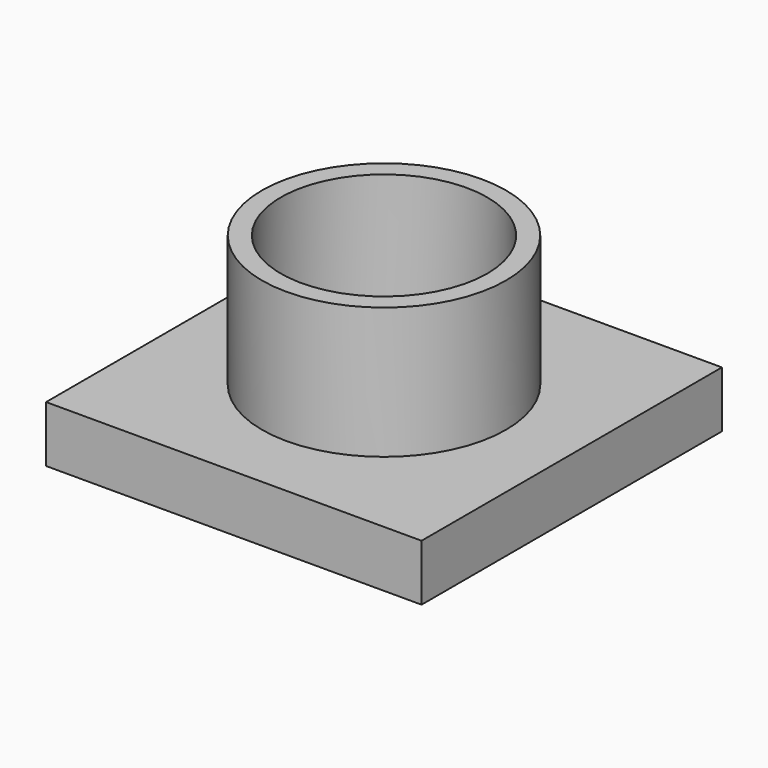
from build123d import *

# Parameters (mm, degrees)
SKETCH_W      = 20
SKETCH_H      = 20
PAD_DEPTH     = 3
SKETCH001_R   = 6.5
SKETCH001_R_2 = 5.5
PAD001_DEPTH  = 10


with BuildPart() as part:
    # Sketch → Pad (new body)
    with BuildSketch(Plane.XY):
        Rectangle(SKETCH_W, SKETCH_H)
    extrude(amount=PAD_DEPTH)

    # Sketch001 → Pad001 (join)
    with BuildSketch(Plane.XY):
        Circle(SKETCH001_R)
        Circle(SKETCH001_R_2, mode=Mode.SUBTRACT)
    extrude(amount=PAD001_DEPTH)


solid = part.part
